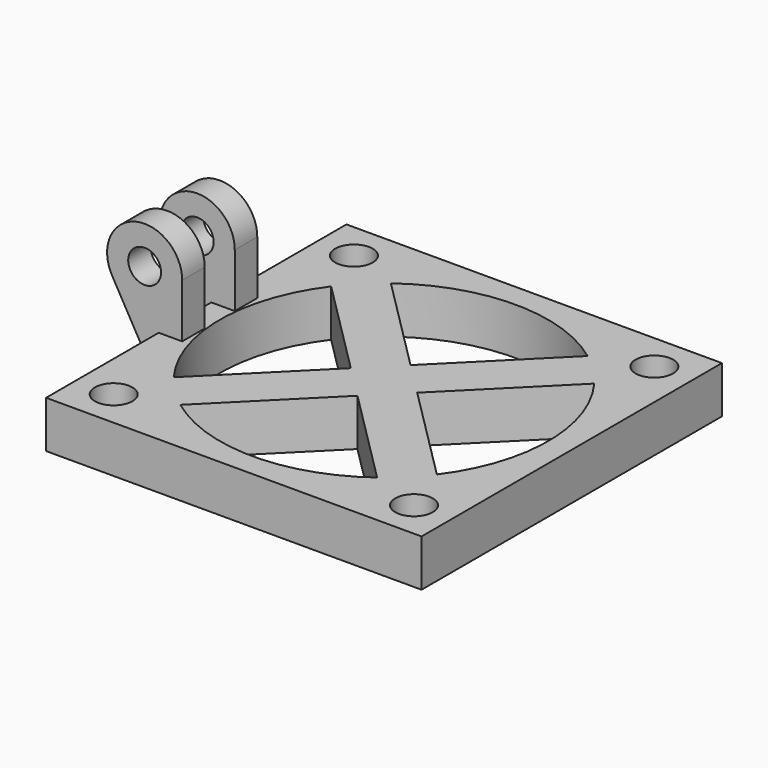
from build123d import *

# Parameters (mm, degrees)
F0_W     = 40
F0_H     = 40
F0_R     = 2
F1_DEPTH = 5
F3_R     = 1.75
F4_DEPTH = 3
F6_R     = 1.75
F7_DEPTH = 3


with BuildPart() as f1:
    # F0 (on Top) → F1 (new body)
    with BuildSketch(Plane.XY):
        with Locations((20, 20)):
            Rectangle(F0_W, F0_H)
        with Locations((4, 4)):
            Circle(F0_R, mode=Mode.SUBTRACT)
        with BuildLine():
            ThreePointArc((30.4796817609, 5.9847843331), (20, 2.5), (9.5203182391, 5.9847843331))
            Line((9.5203182391, 5.9847843331), (20, 16.4644660941))
            Line((20, 16.4644660941), (30.4796817609, 5.9847843331))
        make_face(mode=Mode.SUBTRACT)
        with BuildLine():
            ThreePointArc((5.9847843331, 9.5203182391), (2.5, 20), (5.9847843331, 30.4796817609))
            Line((5.9847843331, 30.4796817609), (16.4644660941, 20))
            Line((16.4644660941, 20), (5.9847843331, 9.5203182391))
        make_face(mode=Mode.SUBTRACT)
        with Locations((36, 4)):
            Circle(F0_R, mode=Mode.SUBTRACT)
        with Locations((4, 36)):
            Circle(F0_R, mode=Mode.SUBTRACT)
        with BuildLine():
            ThreePointArc((34.0152156669, 30.4796817609), (37.5, 20), (34.0152156669, 9.5203182391))
            Line((34.0152156669, 9.5203182391), (23.5355339059, 20))
            Line((23.5355339059, 20), (34.0152156669, 30.4796817609))
        make_face(mode=Mode.SUBTRACT)
        with BuildLine():
            Line((30.4796817609, 34.0152156669), (20, 23.5355339059))
            Line((20, 23.5355339059), (9.5203182391, 34.0152156669))
            ThreePointArc((9.5203182391, 34.0152156669), (20, 37.5), (30.4796817609, 34.0152156669))
        make_face(mode=Mode.SUBTRACT)
        with Locations((36, 36)):
            Circle(F0_R, mode=Mode.SUBTRACT)
    extrude(amount=F1_DEPTH)

    # F3 (on offset) → F4 (join)
    with BuildSketch(Plane.XZ.offset(-22)):
        with BuildLine():
            Line((2.5, 5), (2.5, 10.7387138817))
            ThreePointArc((2.5, 10.7387138817), (-2.5217719064, 14.6060103755), (-4.9779910856, 8.762966426))
            Line((-4.9779910856, 8.762966426), (0, 0))
            Line((0, 0), (0, 5))
            Line((0, 5), (2.5, 5))
        make_face()
        with Locations((-1.5, 10.7387138817)):
            Circle(F3_R, mode=Mode.SUBTRACT)
    extrude(amount=-F4_DEPTH)

    # F6 (on offset) → F7 (join)
    with BuildSketch(Plane.XZ.offset(-18)):
        with BuildLine():
            Line((-4.9779910856, 8.762966426), (0, 0))
            Line((0, 0), (0, 5))
            Line((0, 5), (2.5, 5))
            Line((2.5, 5), (2.5, 10.7387138817))
            ThreePointArc((2.5, 10.7387138817), (-2.5217719064, 14.6060103755), (-4.9779910856, 8.762966426))
        make_face()
        with Locations((-1.5, 10.7387138817)):
            Circle(F6_R, mode=Mode.SUBTRACT)
    extrude(amount=F7_DEPTH)


solid = f1.part
